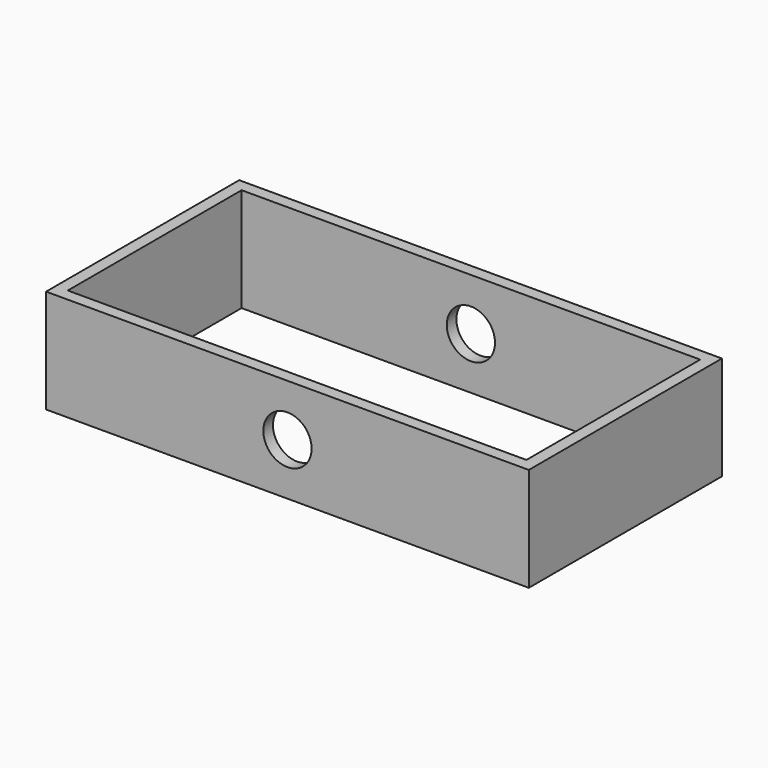
from build123d import *

# Parameters (mm, degrees)
F0_W     = 25.4
F0_H     = 12.7
F0_W_2   = 24.13
F0_H_2   = 11.43
F1_DEPTH = 5.461
F3_D     = 2.54
F3_DEPTH = 25.4


with BuildPart() as f1:
    # F0 (on Top) → F1 (new body)
    with BuildSketch(Plane.XY):
        Rectangle(F0_W, F0_H)
        Rectangle(F0_W_2, F0_H_2, mode=Mode.SUBTRACT)
    extrude(amount=F1_DEPTH)

    # F3
    with Locations(Plane.XZ.offset(6.35)):
        with Locations((0, 2.7305)):
            Hole(F3_D / 2, depth=F3_DEPTH)


solid = f1.part
